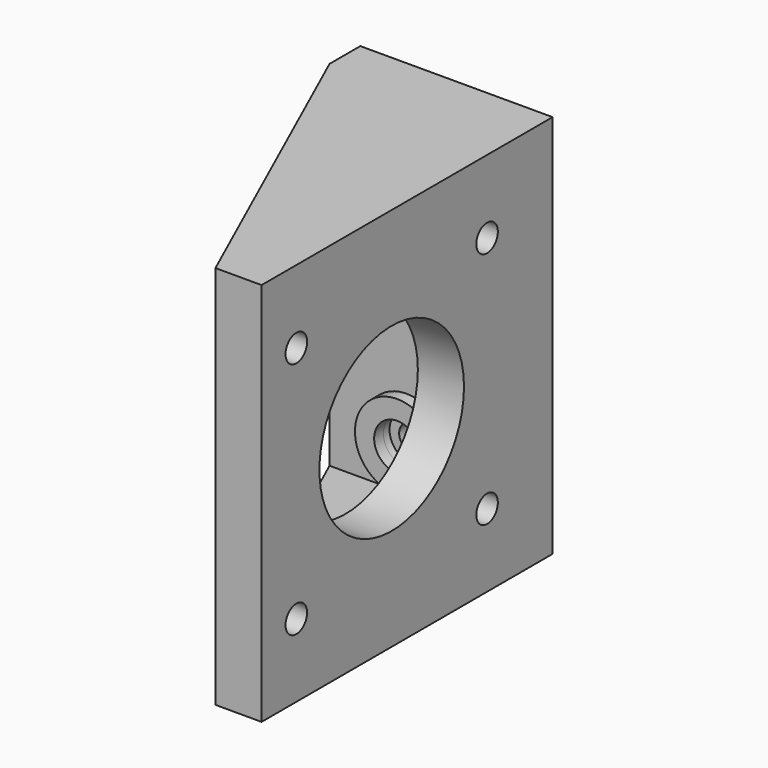
from build123d import *

# Parameters (mm, degrees)
F0_R      = 1.75
F1_DEPTH  = 5
F2_R      = 1.75
F2_R_2    = 11.75
F3_DEPTH  = 6
F5_DEPTH  = 4
F7_DEPTH  = 4
F8_R      = 5.5
F8_R_2    = 3
F9_DEPTH  = 1.5
F10_DEPTH = 1


with BuildPart() as f1:
    # F0 (on Front) → F1 (new body)
    with BuildSketch(Plane.XZ):
        Polygon((15, 25), (-10, 25), (-10, 0), (-10, -25), (15, -25), align=None)
        with Locations((0, -15)):
            Circle(F0_R, mode=Mode.SUBTRACT)
        with Locations((0, 15)):
            Circle(F0_R, mode=Mode.SUBTRACT)
    extrude(amount=F1_DEPTH)

    # F2 (on face) → F3 (join)
    with BuildSketch(Plane.YZ.offset(15)):
        Polygon((-5, 25), (-47.3, 25), (-47.3, -25), (-5, -25), (-5, 0), align=None)
        with Locations((-41.65, -15.5)):
            Circle(F2_R, mode=Mode.SUBTRACT)
        with Locations((-10.65, -15.5)):
            Circle(F2_R, mode=Mode.SUBTRACT)
        with Locations((-41.65, 15.5)):
            Circle(F2_R, mode=Mode.SUBTRACT)
        with Locations((-26.15, 0)):
            Circle(F2_R_2, mode=Mode.SUBTRACT)
        with Locations((-10.65, 15.5)):
            Circle(F2_R, mode=Mode.SUBTRACT)
    extrude(amount=-F3_DEPTH)

    # F4 (on face) → F5 (join)
    with BuildSketch(Plane(origin=(0, 0, -25), x_dir=(1, 0, 0), z_dir=(0, 0, -1))):
        Polygon((9, 47.3), (-10, 5), (9, 5), align=None)
    extrude(amount=-F5_DEPTH)

    # F6 (on face) → F7 (join)
    with BuildSketch(Plane.XY.offset(25)):
        Polygon((-10, -5), (9, -47.3), (9, -5), align=None)
    extrude(amount=-F7_DEPTH)

    # F8 (on face) → F9 (join)
    with BuildSketch(Plane.XZ.offset(5)):
        with Locations((0, 15)):
            Circle(F8_R)
        with Locations((0, 15)):
            Circle(F8_R_2, mode=Mode.SUBTRACT)
        with Locations((0, -15)):
            Circle(F8_R)
        with Locations((0, -15)):
            Circle(F8_R_2, mode=Mode.SUBTRACT)
    extrude(amount=F9_DEPTH)

    # F10 (cut): faces of the model
    f10_faces = [f1.faces().sort_by_distance(p)[0] for p in [
        (-2.9151471863, -5, 15),
        (-2.9151471863, -5, -15),
    ]]
    extrude(f10_faces, amount=-F10_DEPTH, mode=Mode.SUBTRACT)


solid = f1.part
